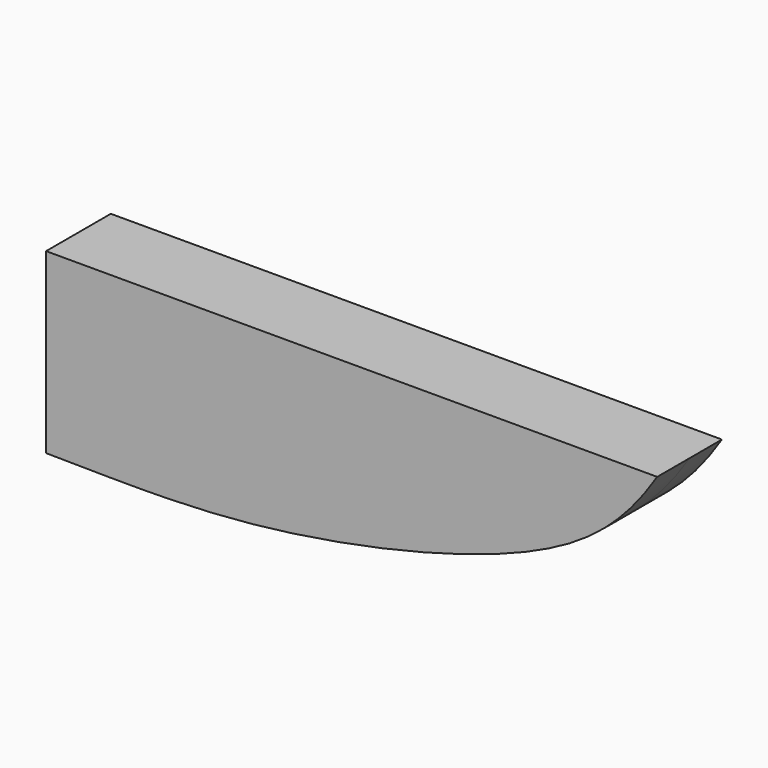
from build123d import *

# Parameters (mm, degrees)
F1_DEPTH = 12.7


with BuildPart() as f1:
    # F0 (on Front) → F1 (new body, symmetric)
    with BuildSketch(Plane.XZ):
        with BuildLine():
            add(Edge.make_bspline(
                [(62.2030279573, 20.687966623), (51.7685321444, 4.3394732491), (25.6932202686, -17.0088381617), (-64.0697510722, -37.025577769), (-107.6166732032, -35.3327654322), (-129.6735033393, -35.151531004)],
                knots=[0, 0, 0, 0, 0.2905056057, 0.6691247159, 1, 1, 1, 1], degree=3))
            Line((62.2030279573, 20.687966623), (-129.6735033393, 20.687966623))
            Line((-129.6735033393, 20.687966623), (-129.6735033393, -35.151531004))
        make_face()
    extrude(amount=F1_DEPTH, both=True)


solid = f1.part
